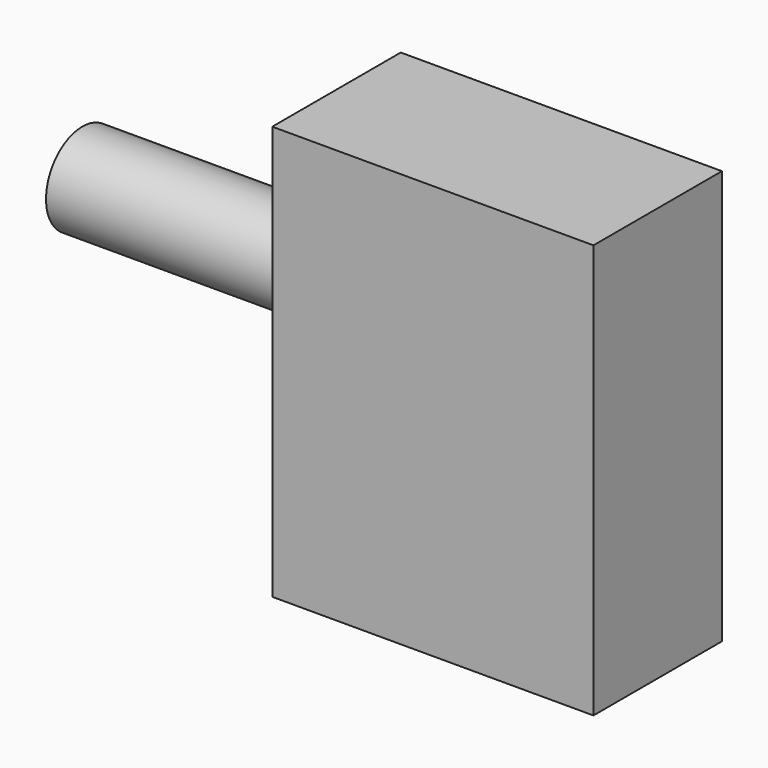
from build123d import *

# Parameters (mm, degrees)
F0_W     = 50.8
F0_H     = 25.4
F1_DEPTH = 65.46558
F2_R     = 7.185017
F3_DEPTH = 90.99605


with BuildPart() as f1:
    # F0 (on Top) → F1 (new body)
    with BuildSketch(Plane.XY):
        with Locations((25.4, 12.7)):
            Rectangle(F0_W, F0_H)
    extrude(amount=F1_DEPTH)

    # F2 (on face) → F3 (join)
    with BuildSketch(Plane.YZ.offset(50.8)):
        with Locations((12.7, 40.06558)):
            Circle(F2_R)
    extrude(amount=-F3_DEPTH)


solid = f1.part
